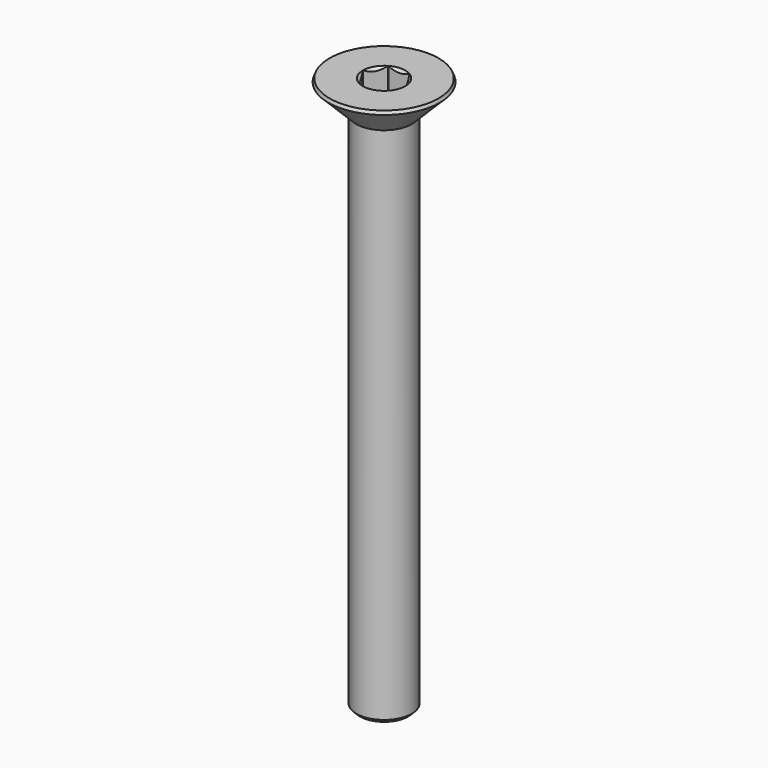
from build123d import *

# Parameters (mm, degrees)
SKETCH001_R     = 2.15
POCKET_DEPTH    = 3.119566
CHAMFER_SIZE    = 0.25
CHAMFER001_SIZE = 0.2


with BuildPart() as pocket:
    # Sketch003 → Revolution001 (revolve)
    with BuildSketch(Plane.XZ):
        Polygon((0, -2.118566), (1.15, -1.7), (1.15, 1), (0, 1), align=None)
    revolve(axis=Axis((0, 0, 0), (0, 0, 1)))

    # Sketch001 (on Face3 of Revolution001) → Pocket (cut, through all)
    with BuildSketch(Plane(origin=(0, 0, 1), x_dir=(-1, 0, 0), z_dir=(0, 0, 1))):
        Circle(SKETCH001_R)
        Polygon((-0.57735, 1), (0.57735, 1), (1.154701, 0), (0.57735, -1), (-0.57735, -1), (-1.154701, 0), align=None, mode=Mode.SUBTRACT)
    extrude(amount=-POCKET_DEPTH, mode=Mode.SUBTRACT)


with BuildPart() as chamfer001:
    # Sketch → Revolution (revolve)
    with BuildSketch(Plane.XZ):
        Polygon((1.15, 0), (3.199999, 0), (1.5, -1.7), (1.5, -30), (0, -30), (0, -1.150001), align=None)
    revolve(axis=Axis((0, 0, 0), (0, 0, 1)))

    # Cut: cut Pocket
    add(pocket.part, mode=Mode.SUBTRACT)

    # Chamfer
    chamfer_edges = [chamfer001.edges().sort_by_distance(p)[0] for p in [
        (-3.199999, 0, 0),
    ]]
    chamfer(chamfer_edges, length=CHAMFER_SIZE)

    # Chamfer001
    chamfer001_edges = [chamfer001.edges().sort_by_distance(p)[0] for p in [
        (-1.5, 0, -30),
    ]]
    chamfer(chamfer001_edges, length=CHAMFER001_SIZE)


solid = chamfer001.part
